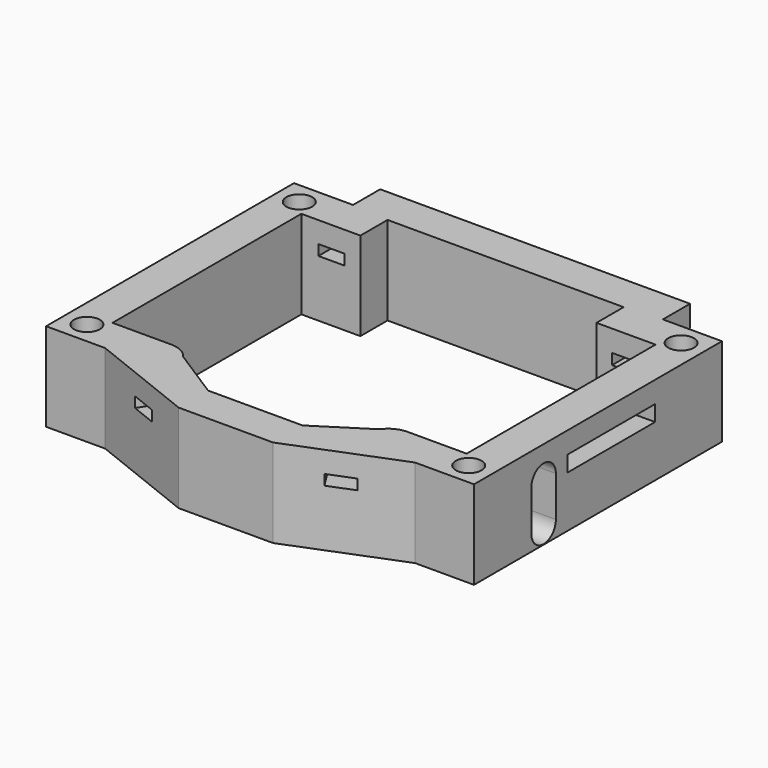
from build123d import *

# Parameters (mm, degrees)
SKETCH007_W                               = 14.824166
SKETCH007_H                               = 2.145144
EXTRUDE007_DEPTH                          = 7
SKETCH006_W                               = 3.554402
SKETCH006_H                               = 1.424327
EXTRUDE006_DEPTH                          = 10
SKETCH004_AS_DRAWN_W                      = 3.541569
SKETCH004_AS_DRAWN_H                      = 1.411495
EXTRUDE005_DEPTH                          = 7
EXTRUDE005_ONTO_SKETCH004_ROLL_ANGLE      = 90
EXTRUDE005_ONTO_SKETCH004_PLACEMENT_ANGLE = 147.47511
SKETCH005_W                               = 3.573389
SKETCH005_H                               = 1.465404
EXTRUDE004_DEPTH                          = 10
SKETCH003_AS_DRAWN_W                      = 3.579881
SKETCH003_AS_DRAWN_H                      = 1.40319
EXTRUDE003_DEPTH                          = 7
EXTRUDE003_ONTO_SKETCH003_ROLL_ANGLE      = 90
EXTRUDE003_ONTO_SKETCH003_PLACEMENT_ANGLE = -147.47511
EXTRUDE002_DEPTH                          = 5
SKETCH_R                                  = 1.75
EXTRUDE_DEPTH                             = 12


with BuildPart() as extrude007:
    # Sketch007 (on Face32 of Cut004) → Extrude007 (new body)
    with BuildSketch(Plane(origin=(24, 0, 0), x_dir=(0, -1, 0), z_dir=(-1, 0, 0))):
        with Locations((-23.062542, 8.033458)):
            Rectangle(SKETCH007_W, SKETCH007_H)
    extrude(amount=-EXTRUDE007_DEPTH)


with BuildPart() as extrude006:
    # Sketch006 (on Face23 of Cut002) → Extrude006 (new body)
    with BuildSketch(Plane.XZ.offset(-36.8)):
        with Locations((-19.910848, 8.431245)):
            Rectangle(SKETCH006_W, SKETCH006_H)
    extrude(amount=-EXTRUDE006_DEPTH)


with BuildPart() as extrude005:
    # Sketch004 as drawn → Extrude005 (new)
    with BuildSketch(Plane.XY):
        with Locations((9.550918, 8.438737)):
            Rectangle(SKETCH004_AS_DRAWN_W, SKETCH004_AS_DRAWN_H)
    extrude(amount=-EXTRUDE005_DEPTH)


with BuildPart() as extrude005_1:
    # Extrude005 onto Sketch004 roll: moved
    add(extrude005.part.rotate(Axis((0, 0, 0), (1, 0, 0)), EXTRUDE005_ONTO_SKETCH004_ROLL_ANGLE))


with BuildPart() as extrude005_2:
    # Extrude005 onto Sketch004 placement: moved
    add(extrude005_1.part.moved(Location((-2.303479, -3.612274, 0))).rotate(Axis((-2.303479, -3.612274, 0), (0, 0, 1)), EXTRUDE005_ONTO_SKETCH004_PLACEMENT_ANGLE))


with BuildPart() as extrude004:
    # Sketch005 (on Face23 of Cut001) → Extrude004 (new body)
    with BuildSketch(Plane.XZ.offset(-36.8)):
        with Locations((19.895352, 8.368902)):
            Rectangle(SKETCH005_W, SKETCH005_H)
    extrude(amount=-EXTRUDE004_DEPTH)


with BuildPart() as extrude003:
    # Sketch003 as drawn → Extrude003 (new)
    with BuildSketch(Plane.XY):
        with Locations((-9.548731, 8.412013)):
            Rectangle(SKETCH003_AS_DRAWN_W, SKETCH003_AS_DRAWN_H)
    extrude(amount=-EXTRUDE003_DEPTH)


with BuildPart() as extrude003_1:
    # Extrude003 onto Sketch003 roll: moved
    add(extrude003.part.rotate(Axis((0, 0, 0), (1, 0, 0)), EXTRUDE003_ONTO_SKETCH003_ROLL_ANGLE))


with BuildPart() as extrude003_2:
    # Extrude003 onto Sketch003 placement: moved
    add(extrude003_1.part.moved(Location((2.303479, -3.612274, 0))).rotate(Axis((2.303479, -3.612274, 0), (0, 0, 1)), EXTRUDE003_ONTO_SKETCH003_PLACEMENT_ANGLE))


with BuildPart() as extrude002:
    # Sketch002 (on Face4 of Extrude) → Extrude002 (new body)
    with BuildSketch(Plane.YZ.offset(29)):
        with BuildLine():
            ThreePointArc((13.665, 7.65), (11.59, 9.725), (9.515, 7.65))
            Line((9.515, 7.65), (9.515, 2.15))
            ThreePointArc((9.515, 2.15), (11.59, 0.075), (13.665, 2.15))
            Line((13.665, 2.15), (13.665, 7.65))
        make_face()
    extrude(amount=-EXTRUDE002_DEPTH)


with BuildPart() as cut005:
    # Sketch → Extrude (new body)
    with BuildSketch(Plane.XY):
        Polygon((-21, 46.4), (21, 46.4), (21, 41.8), (29, 41.8), (29, -0.2), (21, -0.2), (6.4, -6), (-6.4, -6), (-21, -0.2), (-29, -0.2), (-29, 41.8), (-21, 41.8), align=None)
        with Locations((-25.875, 38.79)):
            Circle(SKETCH_R, mode=Mode.SUBTRACT)
        with Locations((25.875, 38.79)):
            Circle(SKETCH_R, mode=Mode.SUBTRACT)
        with Locations((25.875, 2.81)):
            Circle(SKETCH_R, mode=Mode.SUBTRACT)
        with Locations((-25.875, 2.81)):
            Circle(SKETCH_R, mode=Mode.SUBTRACT)
        with BuildLine():
            Line((-16, 41.4), (16, 41.4))
            Line((16, 41.4), (16, 36.8))
            Line((16, 36.8), (24, 36.8))
            Line((24, 36.8), (24, 4.8))
            Line((24, 4.8), (16, 4.8))
            ThreePointArc((16, 4.8), (14.479309, 4.429189), (13.3, 3.4))
            Line((6.4, -1), (13.3, 3.4))
            Line((-6.4, -1), (6.4, -1))
            Line((-6.4, -1), (-13.3, 3.4))
            ThreePointArc((-13.3, 3.4), (-14.479309, 4.429189), (-16, 4.8))
            Line((-24, 4.8), (-16, 4.8))
            Line((-24, 36.8), (-24, 4.8))
            Line((-16, 36.8), (-24, 36.8))
            Line((-16, 41.4), (-16, 36.8))
        make_face(mode=Mode.SUBTRACT)
    extrude(amount=EXTRUDE_DEPTH)

    # Cut: cut Extrude002
    add(extrude002.part, mode=Mode.SUBTRACT)

    # Cut001: cut Extrude003
    add(extrude003_2.part, mode=Mode.SUBTRACT)

    # Cut002: cut Extrude004
    add(extrude004.part, mode=Mode.SUBTRACT)

    # Cut003: cut Extrude005
    add(extrude005_2.part, mode=Mode.SUBTRACT)

    # Cut004: cut Extrude006
    add(extrude006.part, mode=Mode.SUBTRACT)

    # Cut005: cut Extrude007
    add(extrude007.part, mode=Mode.SUBTRACT)


solid = cut005.part
